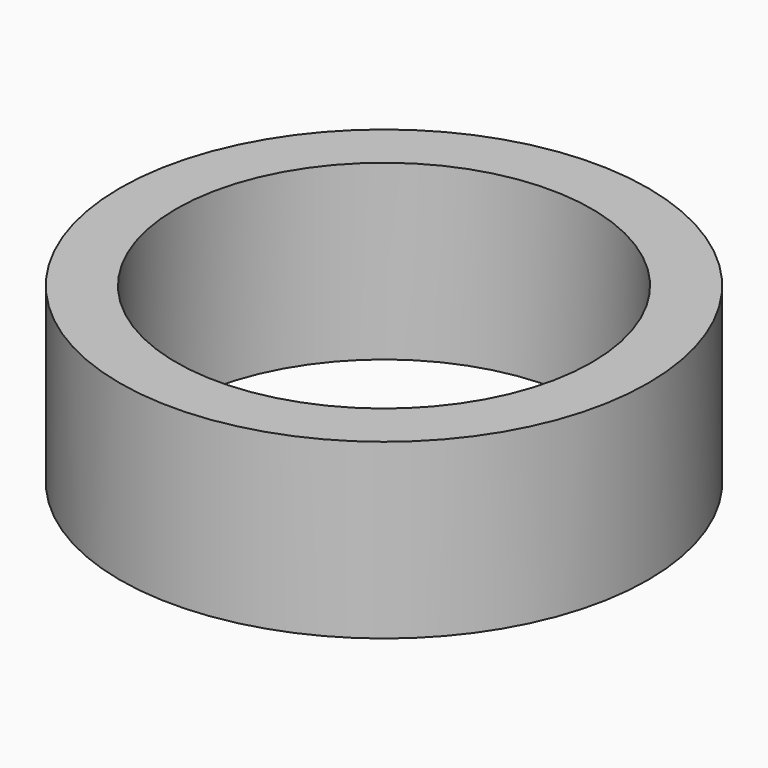
from build123d import *

# Parameters (mm, degrees)
SKETCH_R   = 6.1
SKETCH_R_2 = 4.8
PAD_DEPTH  = 4


with BuildPart() as part:
    # Sketch → Pad (new body)
    with BuildSketch(Plane.XY):
        Circle(SKETCH_R)
        Circle(SKETCH_R_2, mode=Mode.SUBTRACT)
    extrude(amount=PAD_DEPTH)


solid = part.part
